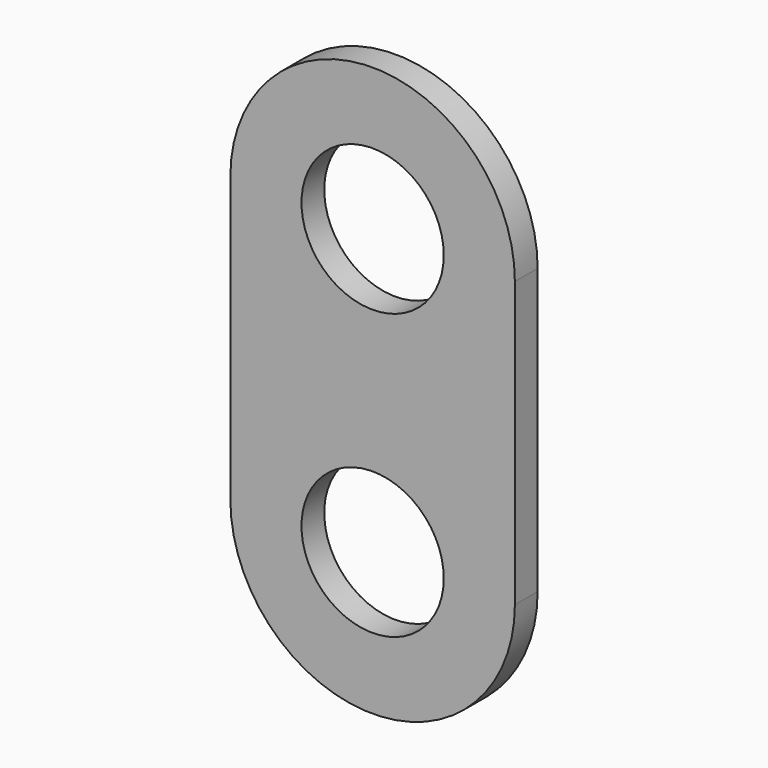
from build123d import *

# Parameters (mm, degrees)
F0_R     = 2.5
F1_DEPTH = 1


with BuildPart() as f1:
    # F0 (on Front) → F1 (new body)
    with BuildSketch(Plane.XZ):
        with BuildLine():
            ThreePointArc((0, 0), (3.535534, 1.464466), (5, 5))
            ThreePointArc((5, 5), (0, 10), (-5, 5))
            ThreePointArc((-5, 5), (-3.535534, 1.464466), (0, 0))
        make_face()
        with Locations((0, 5)):
            Circle(F0_R, mode=Mode.SUBTRACT)
        with BuildLine():
            Line((5, -5), (5, 5))
            ThreePointArc((5, 5), (3.535534, 1.464466), (0, 0))
            ThreePointArc((0, 0), (3.535534, -1.464466), (5, -5))
        make_face()
        with BuildLine():
            ThreePointArc((0, 0), (-3.535534, 1.464466), (-5, 5))
            Line((-5, 5), (-5, -5))
            ThreePointArc((-5, -5), (-3.535534, -1.464466), (0, 0))
        make_face()
        with BuildLine():
            ThreePointArc((5, -5), (3.535534, -1.464466), (0, 0))
            ThreePointArc((0, 0), (-3.535534, -1.464466), (-5, -5))
            ThreePointArc((-5, -5), (0, -10), (5, -5))
        make_face()
        with Locations((0, -5)):
            Circle(F0_R, mode=Mode.SUBTRACT)
    extrude(amount=F1_DEPTH)


solid = f1.part
